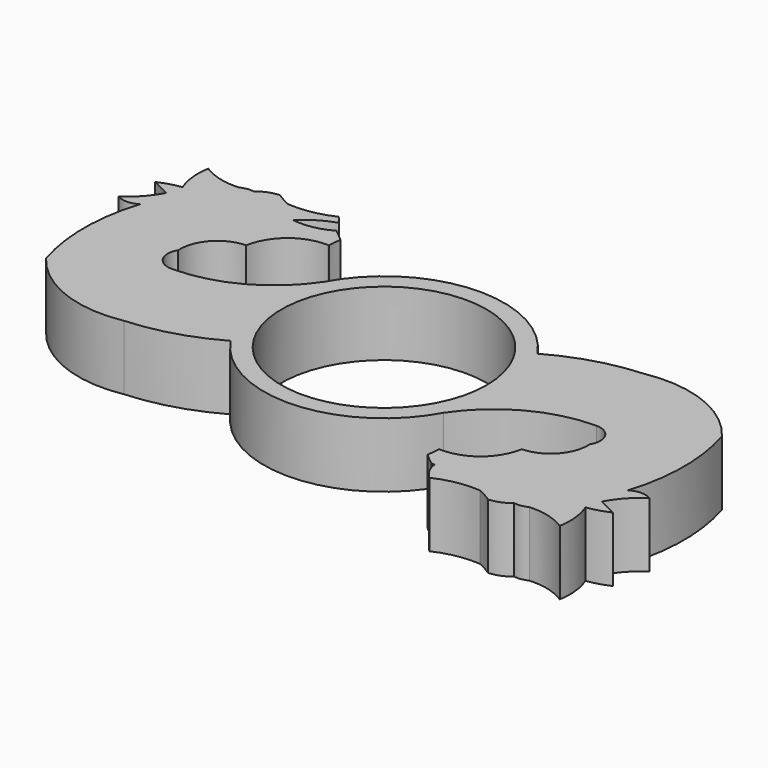
from build123d import *

# Parameters (mm, degrees)
F0_R     = 11.1
F1_DEPTH = 7


with BuildPart() as f1:
    # F0 (on Top) → F1 (new body)
    with BuildSketch(Plane.XY):
        with BuildLine():
            ThreePointArc((-20.1820022707, -9.9415058496), (-15.3539348415, -9.091091221), (-10.8430645172, -7.1713284596))
            ThreePointArc((-10.8430645172, -7.1713284596), (0.5582056386, -12.9880101041), (11.4183705824, -6.2145646061))
            ThreePointArc((11.4183705824, -6.2145646061), (16.4281860721, -1.651791194), (23, 0))
            ThreePointArc((23, 0), (24.7165507362, -1.0092828133), (24.6691871434, -3))
            ThreePointArc((24.6691871434, -3), (23.6178456633, -5.9816728989), (20.7402704139, -7.2913495265))
            ThreePointArc((20.7402704139, -7.2913495265), (18.8416140451, -10.5123262229), (15.2804029597, -11.6513444364))
            add(Edge.make_bspline(
                [(15.1405816519, -13.0223987218), (15.2788713972, -12.2898082007), (15.2804029597, -11.6513444364)],
                knots=[5.0540557872, 5.0540557872, 5.0540557872, 5.4022551178, 5.4022551178, 5.4022551178], degree=2, weights=[1, 0.9848828954, 1]))
            add(Edge.make_bspline(
                [(15.1405816519, -13.0223987218), (15.7602589992, -13.627545907), (16.4485412205, -14.1319848698)],
                knots=[2.4227067274, 2.4227067274, 2.4227067274, 2.5604830279, 2.5604830279, 2.5604830279], degree=2, weights=[1, 0.9976281496, 1]))
            ThreePointArc((16.4485412205, -14.1319848698), (16.7059454387, -14.0965620619), (16.7578368283, -14.3511578014))
            ThreePointArc((16.7578368283, -14.3511578014), (17.1960707743, -15.3819952285), (17.9098490626, -16.2452422082))
            ThreePointArc((17.9098490626, -16.2452422082), (20.2370224114, -15.5077337484), (22.6750224829, -15.3819952285))
            ThreePointArc((22.6750224829, -15.3819952285), (23.4818826617, -15.7752677938), (24.2466118351, -16.2452422082))
            ThreePointArc((24.2466118351, -16.2452422082), (25.3881728474, -15.9967588485), (26.3896299553, -15.3951034771))
            ThreePointArc((26.3896299553, -15.3951034771), (27.1373975838, -15.3951361034), (27.8500681048, -15.1687356707))
            ThreePointArc((27.8500681048, -15.1687356707), (30.0171813338, -15.3741600066), (32.0121236145, -16.2452422082))
            ThreePointArc((32.0121236145, -16.2452422082), (32.0780721748, -14.2146599803), (31.5934991398, -12.2416413867))
            ThreePointArc((31.5934991398, -12.2416413867), (32.8180555594, -11.9786425212), (33.9920036495, -11.5421190858))
            ThreePointArc((33.9920036495, -11.5421190858), (32.9938729979, -11.0530795037), (32.0121236145, -10.5319339782))
            ThreePointArc((32.0121236145, -10.5319339782), (33.1937729386, -8.8658671292), (34.7588080404, -7.5533356057))
            ThreePointArc((34.7588080404, -7.5533356057), (33.6044737815, -7.2274734783), (32.4501395226, -7.5533356057))
            ThreePointArc((32.4501395226, -7.5533356057), (33.4243691341, -1.2097485956), (32.4501395226, 5.1338384145))
            ThreePointArc((32.4501395226, 5.1338384145), (26.9985929856, 9.2793222728), (20.1820022707, 9.9415058496))
            ThreePointArc((20.1820022707, 9.9415058496), (15.3539348415, 9.091091221), (10.8430645172, 7.1713284596))
            ThreePointArc((10.8430645172, 7.1713284596), (-0.5582056386, 12.9880101041), (-11.4183705824, 6.2145646061))
            ThreePointArc((-11.4183705824, 6.2145646061), (-16.4281860721, 1.651791194), (-23, 0))
            ThreePointArc((-23, 0), (-24.7165507362, 1.0092828133), (-24.6691871434, 3))
            ThreePointArc((-24.6691871434, 3), (-23.6178456633, 5.9816728989), (-20.7402704139, 7.2913495265))
            ThreePointArc((-20.7402704139, 7.2913495265), (-18.8775642358, 10.4833581386), (-15.3726424061, 11.6555851871))
            add(Edge.make_bspline(
                [(-15.2804029597, 11.6513444364), (-15.325524504, 11.6549876637), (-15.3726424061, 11.6555851871)],
                knots=[0.2580425601, 0.2580425601, 0.2580425601, 0.2952358655, 0.2952358655, 0.2952358655], degree=2, weights=[1, 0.9998270872, 1]))
            add(Edge.make_bspline(
                [(-15.1405816519, 13.0223987218), (-15.2788713972, 12.2898082007), (-15.2804029597, 11.6513444364)],
                knots=[5.0540557872, 5.0540557872, 5.0540557872, 5.4022551178, 5.4022551178, 5.4022551178], degree=2, weights=[1, 0.9848828954, 1]))
            add(Edge.make_bspline(
                [(-15.1405816519, 13.0223987218), (-15.7602589992, 13.627545907), (-16.4485412205, 14.1319848698)],
                knots=[2.4227067274, 2.4227067274, 2.4227067274, 2.5604830279, 2.5604830279, 2.5604830279], degree=2, weights=[1, 0.9976281496, 1]))
            ThreePointArc((-16.4485412205, 14.1319848698), (-18.4202217975, 13.4084166875), (-20.5199281941, 13.3603723279))
            ThreePointArc((-20.5199281941, 13.3603723279), (-18.985312905, 14.5805065249), (-17.1960707743, 15.3819952285))
            ThreePointArc((-17.1960707743, 15.3819952285), (-17.5217288035, 15.8394422571), (-17.9098490626, 16.2452422082))
            ThreePointArc((-17.9098490626, 16.2452422082), (-20.2370224114, 15.5077337484), (-22.6750224829, 15.3819952285))
            ThreePointArc((-22.6750224829, 15.3819952285), (-23.4818826617, 15.7752677938), (-24.2466118351, 16.2452422082))
            ThreePointArc((-24.2466118351, 16.2452422082), (-25.3881728474, 15.9967588485), (-26.3896299553, 15.3951034771))
            ThreePointArc((-26.3896299553, 15.3951034771), (-27.1352445397, 15.395468841), (-27.8461648315, 15.1706720867))
            ThreePointArc((-27.8461648315, 15.1706720867), (-27.8481169003, 15.1697047499), (-27.8500681048, 15.1687356707))
            ThreePointArc((-27.8500681048, 15.1687356707), (-30.0171813338, 15.3741600066), (-32.0121236145, 16.2452422082))
            ThreePointArc((-32.0121236145, 16.2452422082), (-32.0780721748, 14.2146599803), (-31.5934991398, 12.2416413867))
            ThreePointArc((-31.5934991398, 12.2416413867), (-32.8180555594, 11.9786425212), (-33.9920036495, 11.5421190858))
            ThreePointArc((-33.9920036495, 11.5421190858), (-32.9938729979, 11.0530795037), (-32.0121236145, 10.5319339782))
            ThreePointArc((-32.0121236145, 10.5319339782), (-33.1937729386, 8.8658671292), (-34.7588080404, 7.5533356057))
            ThreePointArc((-34.7588080404, 7.5533356057), (-33.6044737815, 7.2274734783), (-32.4501395226, 7.5533356057))
            ThreePointArc((-32.4501395226, 7.5533356057), (-33.4243691341, 1.2097485956), (-32.4501395226, -5.1338384145))
            ThreePointArc((-32.4501395226, -5.1338384145), (-26.9985929856, -9.2793222728), (-20.1820022707, -9.9415058496))
        make_face()
        Circle(F0_R, mode=Mode.SUBTRACT)
        with BuildLine():
            ThreePointArc((-15.3726424061, 11.6555851871), (-15.326513354, 11.6536677218), (-15.2804029597, 11.6513444364))
            add(Edge.make_bspline(
                [(-15.2804029597, 11.6513444364), (-15.325524504, 11.6549876637), (-15.3726424061, 11.6555851871)],
                knots=[0.2580425601, 0.2580425601, 0.2580425601, 0.2952358655, 0.2952358655, 0.2952358655], degree=2, weights=[1, 0.9998270872, 1]))
        make_face()
    extrude(amount=F1_DEPTH)


solid = f1.part
